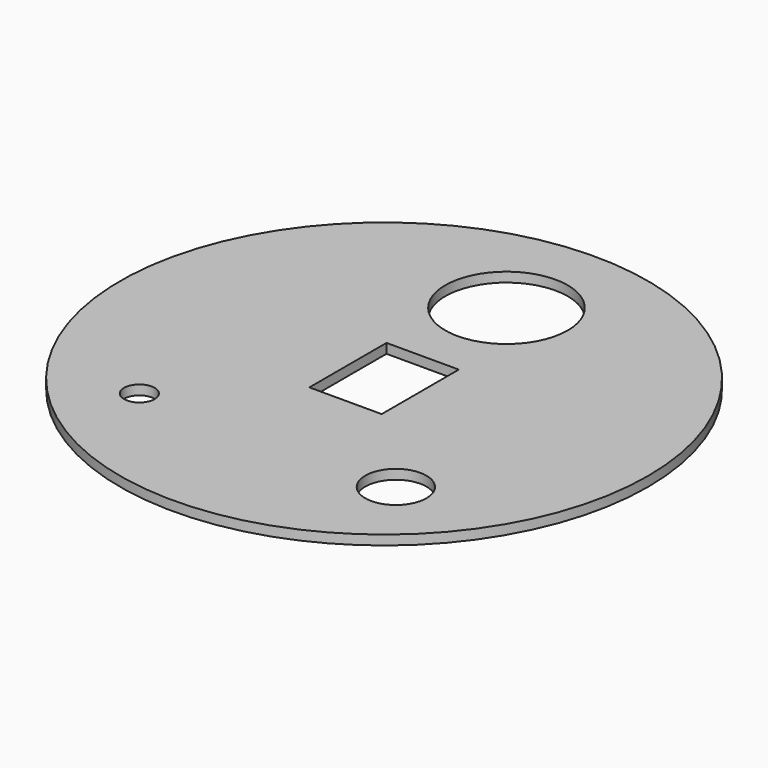
from build123d import *

# Parameters (mm, degrees)
F0_R     = 54.76875
F0_R_2   = 3.175
F0_R_3   = 6.35
F0_W     = 15
F0_H     = 20
F0_R_4   = 12.7
F1_DEPTH = 2


with BuildPart() as f1:
    # F0 (on Top) → F1 (new body)
    with BuildSketch(Plane.XY):
        Circle(F0_R)
        with Locations((-27.678816, -28.877034)):
            Circle(F0_R_2, mode=Mode.SUBTRACT)
        with Locations((25.261652, -28.521202)):
            Circle(F0_R_3, mode=Mode.SUBTRACT)
        Rectangle(F0_W, F0_H, mode=Mode.SUBTRACT)
        with Locations((0, 31.75)):
            Circle(F0_R_4, mode=Mode.SUBTRACT)
    extrude(amount=F1_DEPTH)


solid = f1.part
